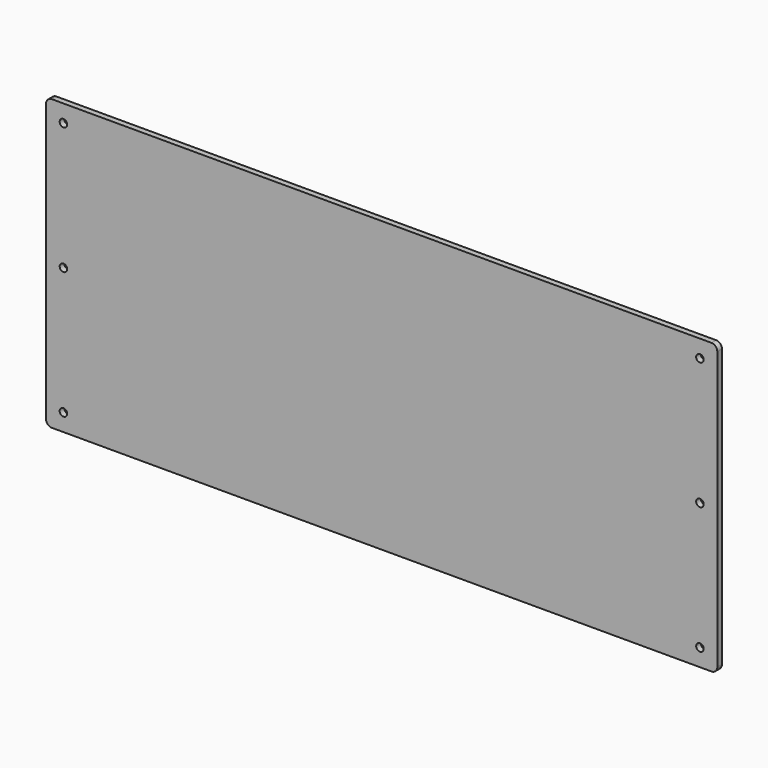
from build123d import *

# Parameters (mm, degrees)
F0_W     = 580
F0_H     = 250
F0_R     = 3.25
F1_DEPTH = 5
F2_R     = 5


with BuildPart() as f1:
    # F0 (on Front) → F1 (new body)
    with BuildSketch(Plane.XZ):
        with Locations((290, 125)):
            Rectangle(F0_W, F0_H)
        with Locations((15, 15)):
            Circle(F0_R, mode=Mode.SUBTRACT)
        with Locations((565, 15)):
            Circle(F0_R, mode=Mode.SUBTRACT)
        with Locations((15, 125)):
            Circle(F0_R, mode=Mode.SUBTRACT)
        with Locations((15, 235)):
            Circle(F0_R, mode=Mode.SUBTRACT)
        with Locations((565, 125)):
            Circle(F0_R, mode=Mode.SUBTRACT)
        with Locations((565, 235)):
            Circle(F0_R, mode=Mode.SUBTRACT)
    extrude(amount=F1_DEPTH)

    # F2
    f2_edges = [f1.edges().sort_by_distance(p)[0] for p in [
        (0, -2.5, 250),
        (0, -2.5, 0),
        (580, -2.5, 0),
        (580, -2.5, 250),
    ]]
    fillet(f2_edges, radius=F2_R)


solid = f1.part
